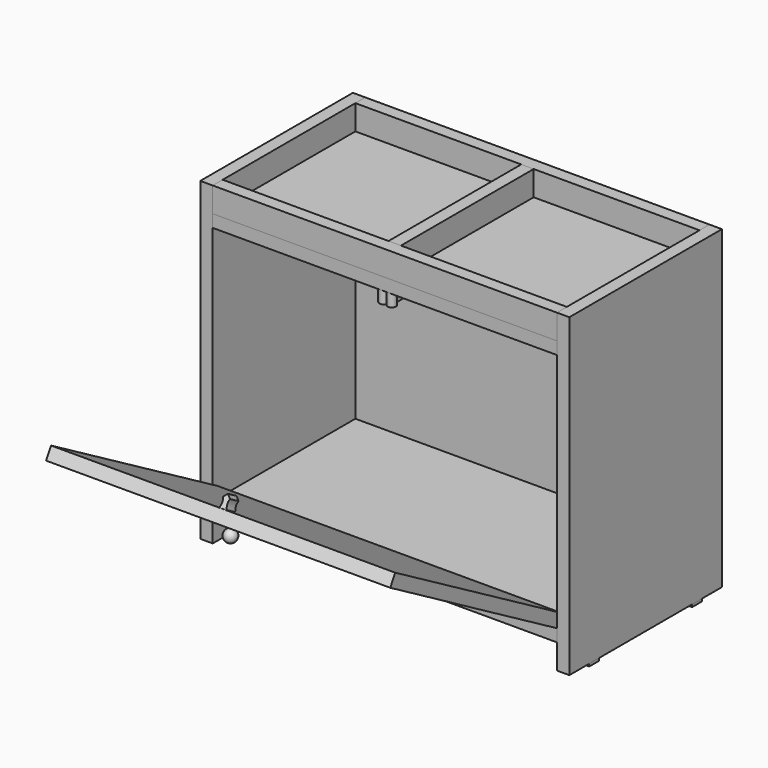
from build123d import *

# Parameters (mm, degrees)
BOX_W             = 415
BOX_H             = 15
BOX_DEPTH         = 30
BOX001_W          = 15
BOX001_H          = 230
BOX001_DEPTH      = 380
BOX002_W          = 15
BOX002_H          = 230
BOX002_DEPTH      = 380
BOX003_W          = 415
BOX003_H          = 215
BOX003_DEPTH      = 15
BOX004_W          = 415
BOX004_H          = 15
BOX004_DEPTH      = 350
BOX005_W          = 15
BOX005_H          = 200
BOX005_DEPTH      = 30
BOX006_W          = 415
BOX006_H          = 215
BOX006_DEPTH      = 15
BOX007_W          = 15
BOX007_H          = 15
BOX007_DEPTH      = 3
BOX008_W          = 15
BOX008_H          = 15
BOX008_DEPTH      = 3
BOX009_W          = 15
BOX009_H          = 15
BOX009_DEPTH      = 3
BOX010_W          = 15
BOX010_H          = 15
BOX010_DEPTH      = 3
BOX011_W          = 415
BOX011_H          = 15
BOX011_DEPTH      = 290
BOX011_ROLL_ANGLE = 60
CYLINDER001_R     = 5
CYLINDER001_DEPTH = 15
BOX012_W          = 10
BOX012_H          = 10
BOX012_DEPTH      = 15
CYLINDER_R        = 5
CYLINDER_DEPTH    = 15
CYLINDER003_R     = 12
CYLINDER003_DEPTH = 15
CYLINDER002_R     = 12
CYLINDER002_DEPTH = 15
BOX013_W          = 8
BOX013_H          = 15
BOX013_DEPTH      = 15
CHAMFER_SIZE      = 3.9
CUT001_ROLL_ANGLE = 60


with BuildPart() as obj1:
    # Box → Box (new body)
    with BuildSketch(Plane.XY):
        with Locations((207.5, 7.5)):
            Rectangle(BOX_W, BOX_H)
    extrude(amount=BOX_DEPTH)


with BuildPart() as obj2:
    # Box001 → Box001 (new body)
    with BuildSketch(Plane(origin=(-15, 0, -350), x_dir=(1, 0, 0), z_dir=(0, 0, 1))):
        with Locations((7.5, 115)):
            Rectangle(BOX001_W, BOX001_H)
    extrude(amount=BOX001_DEPTH)


with BuildPart() as obj3:
    # Box002 → Box002 (new body)
    with BuildSketch(Plane(origin=(415, 0, -350), x_dir=(1, 0, 0), z_dir=(0, 0, 1))):
        with Locations((7.5, 115)):
            Rectangle(BOX002_W, BOX002_H)
    extrude(amount=BOX002_DEPTH)


with BuildPart() as tamposuperiorhorizontal:
    # Box003 → Box003 (new body)
    with BuildSketch(Plane.XY.offset(-15)):
        with Locations((207.5, 107.5)):
            Rectangle(BOX003_W, BOX003_H)
    extrude(amount=BOX003_DEPTH)


with BuildPart() as obj4:
    # Box004 → Box004 (new body)
    with BuildSketch(Plane(origin=(0, 215, -320), x_dir=(1, 0, 0), z_dir=(0, 0, 1))):
        with Locations((207.5, 7.5)):
            Rectangle(BOX004_W, BOX004_H)
    extrude(amount=BOX004_DEPTH)


with BuildPart() as obj5:
    # Box005 → Box005 (new body)
    with BuildSketch(Plane(origin=(200, 15, 0), x_dir=(1, 0, 0), z_dir=(0, 0, 1))):
        with Locations((7.5, 100)):
            Rectangle(BOX005_W, BOX005_H)
    extrude(amount=BOX005_DEPTH)


with BuildPart() as tampoinferiorhorizontal:
    # Box006 → Box006 (new body)
    with BuildSketch(Plane.XY.offset(-320)):
        with Locations((207.5, 107.5)):
            Rectangle(BOX006_W, BOX006_H)
    extrude(amount=BOX006_DEPTH)


with BuildPart() as cube:
    # Box007 → Box007 (new body)
    with BuildSketch(Plane(origin=(-15, 30, -353), x_dir=(1, 0, 0), z_dir=(0, 0, 1))):
        with Locations((7.5, 7.5)):
            Rectangle(BOX007_W, BOX007_H)
    extrude(amount=BOX007_DEPTH)


with BuildPart() as cube001:
    # Box008 → Box008 (new body)
    with BuildSketch(Plane(origin=(-15, 185, -353), x_dir=(1, 0, 0), z_dir=(0, 0, 1))):
        with Locations((7.5, 7.5)):
            Rectangle(BOX008_W, BOX008_H)
    extrude(amount=BOX008_DEPTH)


with BuildPart() as cube002:
    # Box009 → Box009 (new body)
    with BuildSketch(Plane(origin=(415, 30, -353), x_dir=(1, 0, 0), z_dir=(0, 0, 1))):
        with Locations((7.5, 7.5)):
            Rectangle(BOX009_W, BOX009_H)
    extrude(amount=BOX009_DEPTH)


with BuildPart() as cube003:
    # Box010 → Box010 (new body)
    with BuildSketch(Plane(origin=(415, 185, -353), x_dir=(1, 0, 0), z_dir=(0, 0, 1))):
        with Locations((7.5, 7.5)):
            Rectangle(BOX010_W, BOX010_H)
    extrude(amount=BOX010_DEPTH)


with BuildPart() as tampabasculante:
    # Box011 → Box011 (new body)
    with BuildSketch(Plane.XY):
        with Locations((207.5, 7.5)):
            Rectangle(BOX011_W, BOX011_H)
    extrude(amount=BOX011_DEPTH)


with BuildPart() as tampabasculante_1:
    # Box011 roll: moved
    add(tampabasculante.part.rotate(Axis((0, 0, 0), (1, 0, 0)), BOX011_ROLL_ANGLE))


with BuildPart() as tampabasculante_2:
    # Box011 placement: moved
    add(tampabasculante_1.part.moved(Location((0, 0, -305))))


with BuildPart() as puxador:
    # Sphere → Sphere (revolve)
    with BuildSketch(Plane(origin=(207, -232, -180), x_dir=(1, 0, 0), z_dir=(0, -1, 0))):
        with BuildLine():
            ThreePointArc((0, -7.5), (7.5, 0), (0, 7.5))
            Line((0, 7.5), (0, -7.5))
        make_face()
    revolve(axis=Axis((207, -232, -180), (0, 0, 1)))


with BuildPart() as cylinder001:
    # Cylinder001 → Cylinder001 (new body)
    with BuildSketch(Plane(origin=(-90, 0, 0), x_dir=(1, 0, 0), z_dir=(0, 0, 1))):
        Circle(CYLINDER001_R)
    extrude(amount=CYLINDER001_DEPTH)


with BuildPart() as cube004:
    # Box012 → Box012 (new body)
    with BuildSketch(Plane(origin=(-100, 5, 0), x_dir=(1, 0, 0), z_dir=(0, 0, 1))):
        with Locations((5, 5)):
            Rectangle(BOX012_W, BOX012_H)
    extrude(amount=BOX012_DEPTH)


with BuildPart() as fusion:
    # Cylinder → Cylinder (new body)
    with BuildSketch(Plane(origin=(-100, 0, 0), x_dir=(1, 0, 0), z_dir=(0, 0, 1))):
        Circle(CYLINDER_R)
    extrude(amount=CYLINDER_DEPTH)

    # Fusion: union Cylinder001, Cube004
    add(cylinder001.part)
    add(cube004.part)


with BuildPart() as fusion_1:
    # Fusion placement: moved
    add(fusion.part.moved(Location((302, 5, -30))))


with BuildPart() as cylinder003:
    # Cylinder003 → Cylinder003 (new body)
    with BuildSketch(Plane(origin=(182, -124, -70), x_dir=(1, 0, 0), z_dir=(0, 0, 1))):
        Circle(CYLINDER003_R)
    extrude(amount=CYLINDER003_DEPTH)


with BuildPart() as cylinder002:
    # Cylinder002 → Cylinder002 (new body)
    with BuildSketch(Plane(origin=(212, -124, -70), x_dir=(1, 0, 0), z_dir=(0, 0, 1))):
        Circle(CYLINDER002_R)
    extrude(amount=CYLINDER002_DEPTH)


with BuildPart() as cut001:
    # Box013 → Box013 (new body)
    with BuildSketch(Plane(origin=(193, -130, -70), x_dir=(1, 0, 0), z_dir=(0, 0, 1))):
        with Locations((4, 7.5)):
            Rectangle(BOX013_W, BOX013_H)
    extrude(amount=BOX013_DEPTH)

    # Chamfer
    chamfer_edges = [cut001.edges().sort_by_distance(p)[0] for p in [
        (193, -115, -62.5),
        (201, -115, -62.5),
    ]]
    chamfer(chamfer_edges, length=CHAMFER_SIZE)

    # Cut: cut Cylinder002
    add(cylinder002.part, mode=Mode.SUBTRACT)

    # Cut001: cut Cylinder003
    add(cylinder003.part, mode=Mode.SUBTRACT)


with BuildPart() as cut001_1:
    # Cut001 roll: moved
    add(cut001.part.rotate(Axis((0, 0, 0), (1, 0, 0)), CUT001_ROLL_ANGLE))


with BuildPart() as cut001_2:
    # Cut001 placement: moved
    add(cut001_1.part.moved(Location((10, -226, -7))))


solid = Compound([obj1.part, obj2.part, obj3.part, tamposuperiorhorizontal.part, obj4.part, obj5.part, tampoinferiorhorizontal.part, cube.part, cube001.part, cube002.part, cube003.part, tampabasculante_2.part, puxador.part, fusion_1.part, cut001_2.part])
